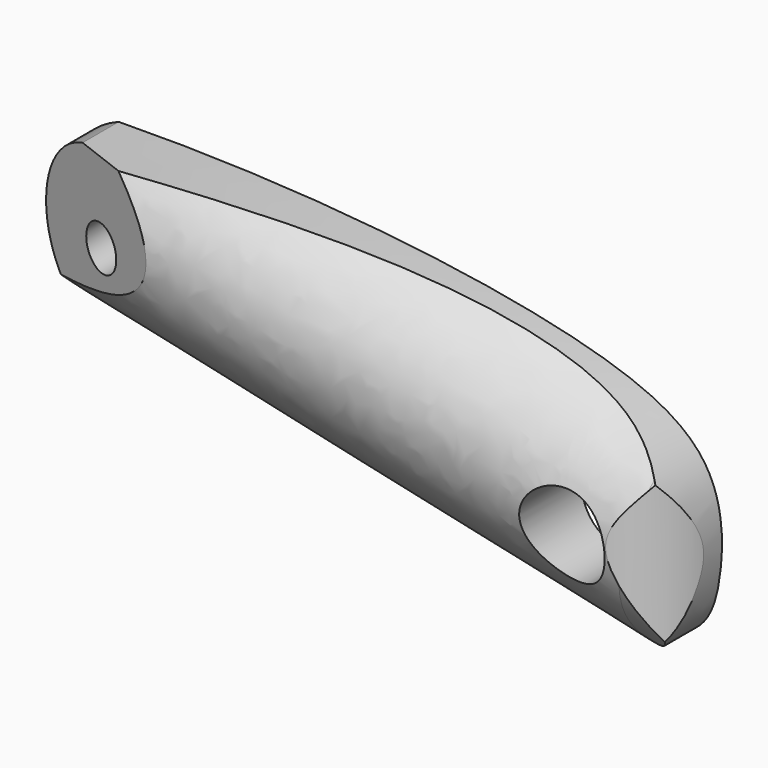
from build123d import *

# Parameters (mm, degrees)
F1_DEPTH = 6.35
F2_D     = 6.35
F3_D     = 3.175
F6_DEPTH = 63.5
F8_DEPTH = 38.1


with BuildPart() as f1:
    # F0 (on Front) → F1 (new body)
    with BuildSketch(Plane.XZ):
        with BuildLine():
            add(Edge.make_bspline(
                [(11.7170246186, 27.5181992918), (26.2255903847, 27.7629586116), (48.3846492687, 25.0700674705), (55.6356924136, 19.3540475045), (55.8687851234, 12.478221614), (52.7926576137, 3.0913798232), (22.8349964924, 16.4619868897), (11.0743273574, 16.709885222)],
                knots=[0.3296138166, 0.3296138166, 0.3296138166, 0.3296138166, 0.480499723, 0.5607025722, 0.6289296599, 0.6976911092, 0.8631531697, 0.8631531697, 0.8631531697, 0.8631531697], degree=3))
            ThreePointArc((11.7170246186, 27.5181992918), (7.864434674, 22.32402127), (11.0743273574, 16.709885222))
        make_face()
    extrude(amount=F1_DEPTH)

    # F2 (through all)
    with Locations(Plane(origin=(0, 0, 0), x_dir=(1, 0, 0), z_dir=(0, 1, 0))):
        with Locations((48.6235208809, -15.1863284409)):
            Hole(F2_D / 2)

    # F3 (through all)
    with Locations(Plane(origin=(0, 0, 0), x_dir=(1, 0, 0), z_dir=(0, 1, 0))):
        with Locations((13.6874951422, -21.7128396034)):
            Hole(F3_D / 2)

    # F5 (on face) → F6 (cut, symmetric)
    with BuildSketch(Plane(origin=(47.3973885527, 0, -10.3885295862), x_dir=(0, -1, 0), z_dir=(-0.9768123791, 0, 0.2140971182))):
        with BuildLine():
            add(Edge.make_bspline(
                [(0, 34.7532853484), (1.5378532055, 33.5959036458), (4.4815687566, 31.3875342093), (6.4257674751, 26.8939046891), (4.9897171526, 21.721626127), (1.7671005847, 18.8913922435), (0, 17.6107138395)],
                knots=[0, 0, 0, 0, 0.2558418404, 0.4854903825, 0.725840266, 1, 1, 1, 1], degree=3))
            Line((0, 17.6107138395), (0, 16.6775155813))
            Line((0, 16.6775155813), (13.2649885491, 16.6775155813))
            Line((13.2649885491, 16.6775155813), (13.2649885491, 37.0723327391))
            Line((13.2649885491, 37.0723327391), (0, 37.0723327391))
            Line((0, 37.0723327391), (0, 34.7532853484))
        make_face()
    extrude(amount=F6_DEPTH, both=True, mode=Mode.SUBTRACT)

    # F7 (on Top) → F8 (cut, symmetric)
    with BuildSketch(Plane.XY):
        Polygon((22.2920793171, -7.4048238039), (3.2524354756, 0), (0, 0), (0, -11.8425413966), (16.7136751115, -11.8425413966), (22.3890412599, -11.8425413966), align=None)
        with BuildLine():
            Line((59.1935403645, 0), (55.88, 0))
            ThreePointArc((55.88, 0), (54.0201280605, -4.4901280605), (49.53, -6.35))
            Line((49.53, -6.35), (49.53, -9.6727749333))
            Line((49.53, -9.6727749333), (59.1935403645, -9.6727749333))
            Line((59.1935403645, -9.6727749333), (59.1935403645, 0))
        make_face()
    extrude(amount=F8_DEPTH, both=True, mode=Mode.SUBTRACT)


solid = f1.part
